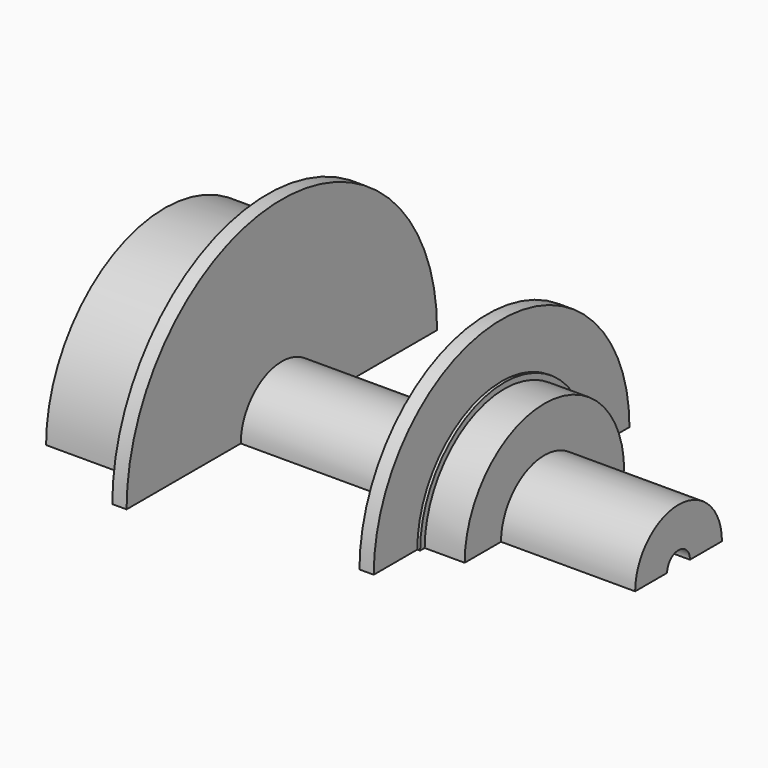
from build123d import *

# Parameters (mm, degrees)
REVOLUTION_ANGLE = 180


with BuildPart() as part:
    # Sketch → Revolution (revolve)
    with BuildSketch(Plane.XY):
        Polygon((26.5, 9.5), (26.5, 17.46), (19.5, 17.46), (19.5, 18.46), (19, 18.46), (19, 28), (16.5, 28), (16.5, 9), (-19.5, 9), (-19.5, 34), (-22, 34), (-22, 26), (-40, 26), (-40, 9.5), (-50, 9.5), (-50, 2.5), (50, 2.5), (50, 9.5), align=None)
    revolve(axis=Axis((0, 0, 0), (1, 0, 0)), revolution_arc=REVOLUTION_ANGLE)


solid = part.part
